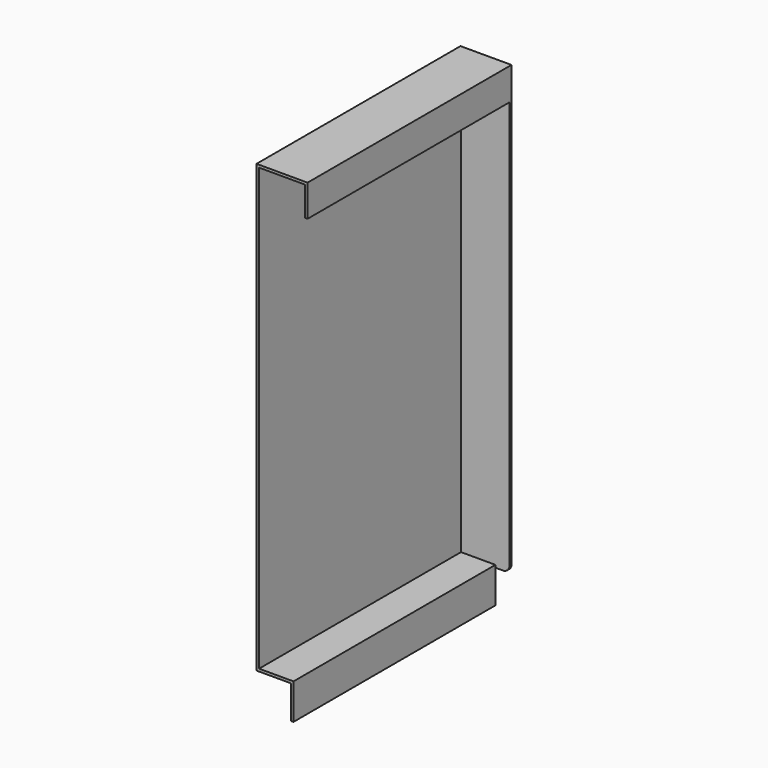
from build123d import *

# Parameters (mm, degrees)
F4_DEPTH = 2


with BuildPart() as f2:
    # F2: sweep along a path in F1
    with BuildLine(Plane.XY) as f2_path:
        Line((0, 0), (0, 198))
    # F0 (on Front) → F2 (sweep)
    with BuildSketch(Plane.XZ):
        Polygon((40, 0), (0, 0), (0, -350), (27, -350), (27, -376), (29, -376), (29, -348), (2, -348), (2, -2), (38, -2), (38, -25), (40, -25), align=None)
    sweep(path=f2_path.line)

    # F3 (on face) → F4 (join)
    with BuildSketch(Plane(origin=(0, 198, 0), x_dir=(-1, 0, 0), z_dir=(0, 1, 0))):
        with BuildLine():
            Line((-27, -350), (0, -350))
            Line((0, -350), (0, 0))
            Line((0, 0), (-40, 0))
            Line((-40, 0), (-40, -25))
            Line((-40, -25), (-40, -345))
            ThreePointArc((-40, -345), (-38.5355339059, -348.5355339059), (-35, -350))
            Line((-35, -350), (-29, -350))
            Line((-29, -350), (-27, -350))
        make_face()
    extrude(amount=F4_DEPTH)


solid = f2.part
